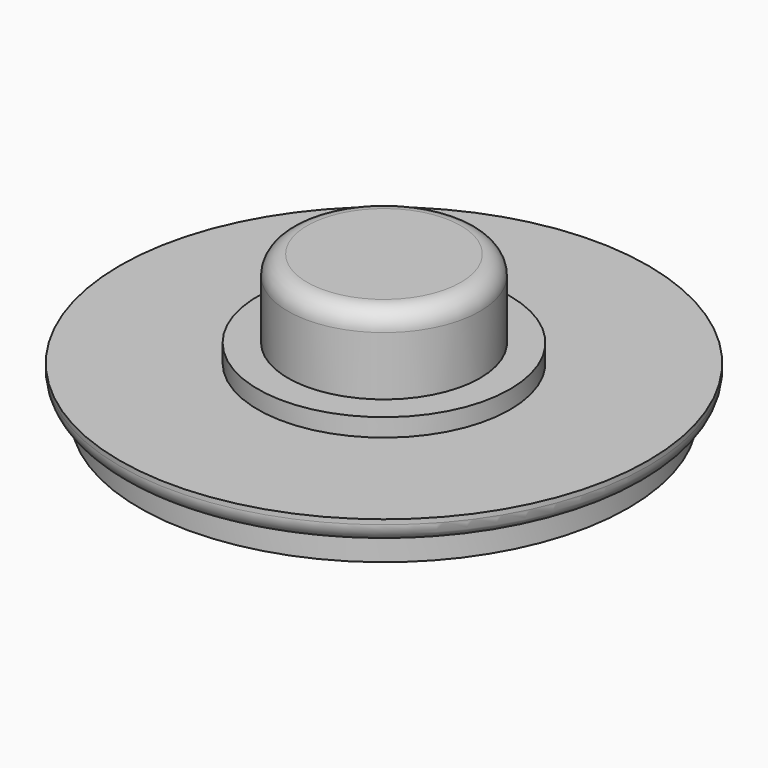
from build123d import *

# Parameters (mm, degrees)
F0_R     = 11
F1_DEPTH = 1
F2_R     = 4
F3_DEPTH = 4
F4_R     = 0.8
F5_R     = 5.25
F5_R_2   = 4
F6_DEPTH = 0.75
F7_R     = 10.1819626288
F7_R_2   = 8.5
F7_R_3   = 7
F7_R_4   = 5.5
F7_R_5   = 4
F7_R_6   = 2.5
F8_DEPTH = 1


with BuildPart() as f1:
    # F0 (on Top) → F1 (new body)
    with BuildSketch(Plane.XY):
        Circle(F0_R)
    extrude(amount=F1_DEPTH)

    # F2 (on face) → F3 (join)
    with BuildSketch(Plane.XY.offset(1)):
        Circle(F2_R)
    extrude(amount=F3_DEPTH)

    # F4
    f4_edges = [f1.edges().sort_by_distance(p)[0] for p in [
        (-11, 0, 0),
        (-4, 0, 5),
    ]]
    fillet(f4_edges, radius=F4_R)

    # F5 (on face) → F6 (join)
    with BuildSketch(Plane.XY.offset(1)):
        Circle(F5_R)
        Circle(F5_R_2, mode=Mode.SUBTRACT)
        Circle(F5_R_2)
    extrude(amount=F6_DEPTH)

    # F7 (on face) → F8 (join)
    with BuildSketch(Plane(origin=(0, 0, 0), x_dir=(1, 0, 0), z_dir=(0, 0, -1))):
        Circle(F7_R)
        Circle(F7_R_2, mode=Mode.SUBTRACT)
        Circle(F7_R_3)
        Circle(F7_R_4, mode=Mode.SUBTRACT)
        Circle(F7_R_5)
        Circle(F7_R_6, mode=Mode.SUBTRACT)
    extrude(amount=F8_DEPTH)


solid = f1.part
